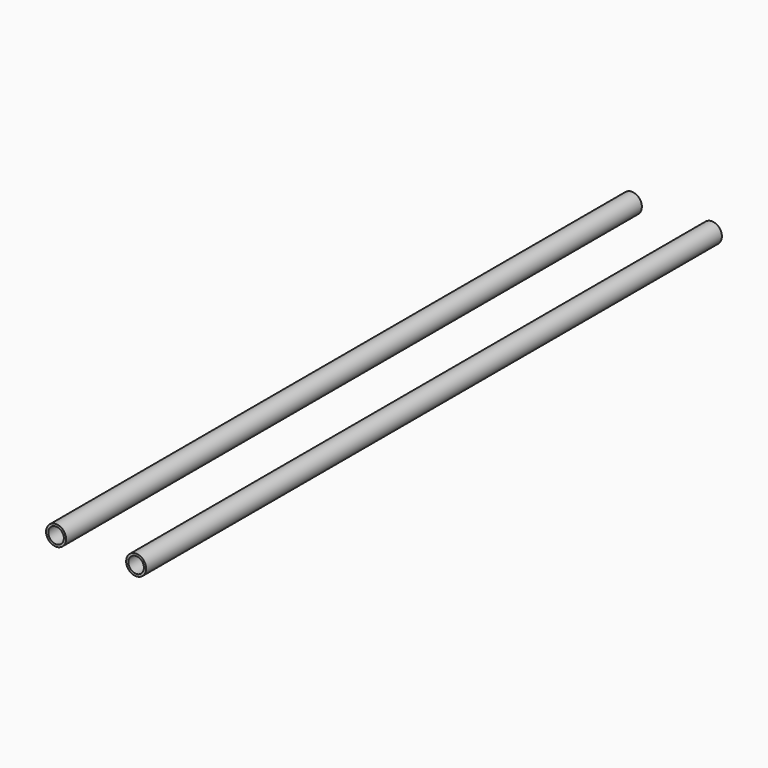
from build123d import *

# Parameters (mm, degrees)
F0_R     = 5
F0_R_2   = 3.9
F1_DEPTH = 359.5


with BuildPart() as f1:
    # F0 (on Front) → F1 (new body)
    with BuildSketch(Plane.XZ):
        with Locations((-20, 0)):
            Circle(F0_R)
        with Locations((-20, 0)):
            Circle(F0_R_2, mode=Mode.SUBTRACT)
        with Locations((20, 0)):
            Circle(F0_R)
        with Locations((20, 0)):
            Circle(F0_R_2, mode=Mode.SUBTRACT)
    extrude(amount=F1_DEPTH)


solid = f1.part
